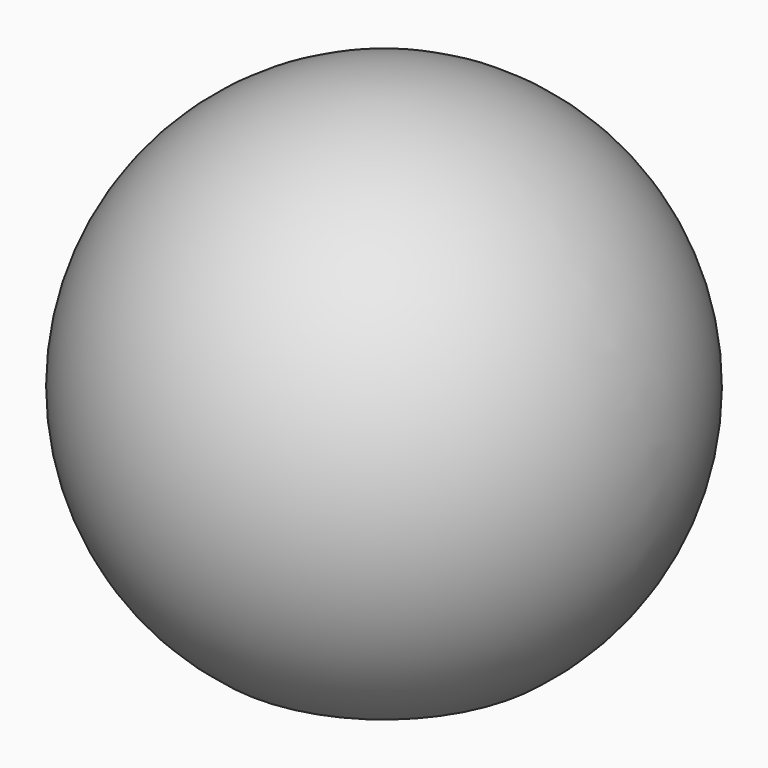
from build123d import *

# Parameters (mm, degrees)
F3_D     = 5
F3_DEPTH = 14
F3_TIP   = 1.5021515476


with BuildPart() as f1:
    # F0 (on Front) → F1 (revolve)
    with BuildSketch(Plane.XZ):
        with BuildLine():
            Line((0, -10), (7.5, -10))
            ThreePointArc((7.5, -10), (11.8585412256, 3.9528470752), (0, 12.5))
            Line((0, 12.5), (0, -10))
        make_face()
    revolve(axis=Axis((0, 0, 1.25), (0, 0, -1)))

    # F3
    with Locations(Plane(origin=(0, 0, -10), x_dir=(1, 0, 0), z_dir=(0, 0, -1))):
        with Locations((0, 0)):
            Hole(F3_D / 2, depth=F3_DEPTH)
            with Locations((0, 0, -(F3_DEPTH + F3_TIP / 2))):  # 118° drill point
                Cone(0, F3_D / 2, F3_TIP, mode=Mode.SUBTRACT)


solid = f1.part
